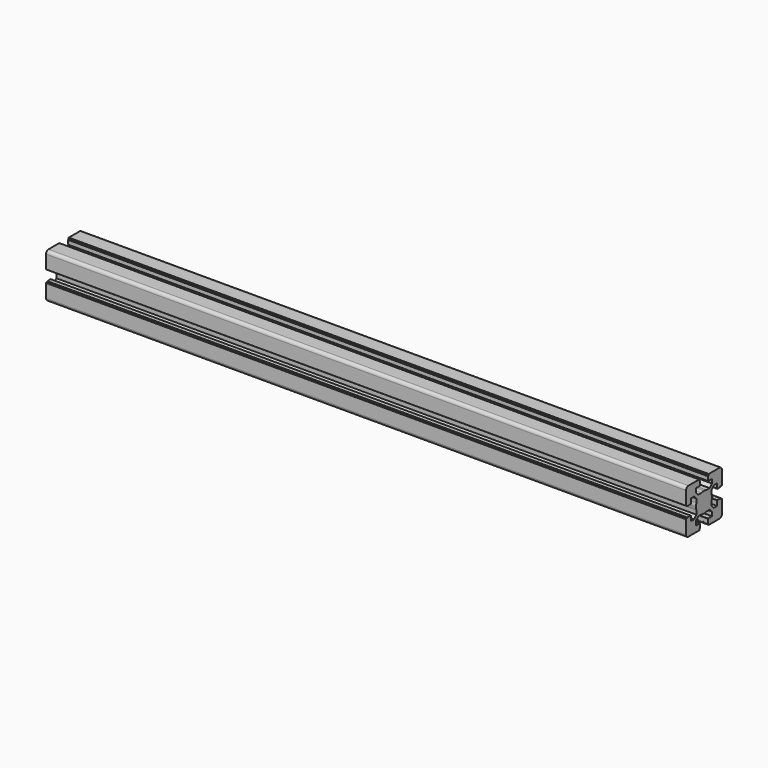
from build123d import *

# Parameters (mm, degrees)
F1_DEPTH = 641.35


with BuildPart() as f1:
    # F0 (on Right) → F1 (new body)
    with BuildSketch(Plane.YZ):
        with BuildLine():
            Line((-20.088481, -9.788837), (-20.088481, -10.288837))
            Line((-20.088481, -10.288837), (-21.28859, -10.288837))
            ThreePointArc((-21.28859, -10.288837), (-21.500722, -10.376705), (-21.58859, -10.588837))
            Line((-21.58859, -10.588837), (-21.58859, -23.988949))
            ThreePointArc((-21.58859, -23.988949), (-20.70991, -26.11027), (-18.58859, -26.988949))
            Line((-18.58859, -26.988949), (-5.188544, -26.988949))
            ThreePointArc((-5.188544, -26.988949), (-4.976411, -26.901081), (-4.888544, -26.688949))
            Line((-4.888544, -26.688949), (-4.888544, -25.488841))
            Line((-4.888544, -25.488841), (-4.388544, -25.488841))
            ThreePointArc((-4.388544, -25.488841), (-4.176411, -25.400973), (-4.088544, -25.188841))
            Line((-4.088544, -25.188841), (-4.088544, -21.288841))
            ThreePointArc((-4.088544, -21.288841), (-4.176411, -21.076709), (-4.388544, -20.988841))
            Line((-4.388544, -20.988841), (-9.138663, -20.988841))
            Line((-9.138663, -20.988841), (-9.138663, -16.881665))
            Line((-9.138663, -16.881665), (-6.245729, -13.988731))
            Line((-6.245729, -13.988731), (-2.211433, -13.988731))
            ThreePointArc((-2.211433, -13.988731), (-0.669869, -14.363044), (0.91149, -14.48887))
            Line((0.91149, -14.48887), (0.91149, -4.48887))
            Line((0.91149, -4.48887), (-9.08851, -4.48887))
            ThreePointArc((-9.08851, -4.48887), (-8.962684, -6.070229), (-8.588371, -7.611793))
            Line((-8.588371, -7.611793), (-8.588371, -11.646022))
            Line((-8.588371, -11.646022), (-11.481305, -14.538956))
            Line((-11.481305, -14.538956), (-15.588481, -14.538956))
            Line((-15.588481, -14.538956), (-15.588481, -9.788837))
            ThreePointArc((-15.588481, -9.788837), (-15.676349, -9.576705), (-15.888481, -9.488837))
            Line((-15.888481, -9.488837), (-19.788481, -9.488837))
            ThreePointArc((-19.788481, -9.488837), (-20.000613, -9.576705), (-20.088481, -9.788837))
        make_face()
        with BuildLine():
            ThreePointArc((-8.588371, -1.365947), (-8.962684, -2.907511), (-9.08851, -4.48887))
            Line((-9.08851, -4.48887), (0.91149, -4.48887))
            Line((0.91149, -4.48887), (0.91149, 5.51113))
            ThreePointArc((0.91149, 5.51113), (-0.669869, 5.385303), (-2.211433, 5.010991))
            Line((-2.211433, 5.010991), (-6.245729, 5.010991))
            Line((-6.245729, 5.010991), (-9.138663, 7.903925))
            Line((-9.138663, 7.903925), (-9.138663, 12.011101))
            Line((-9.138663, 12.011101), (-4.388544, 12.011101))
            ThreePointArc((-4.388544, 12.011101), (-4.176411, 12.098969), (-4.088544, 12.311101))
            Line((-4.088544, 12.311101), (-4.088544, 16.211101))
            ThreePointArc((-4.088544, 16.211101), (-4.176411, 16.423233), (-4.388544, 16.511101))
            Line((-4.388544, 16.511101), (-4.888544, 16.511101))
            Line((-4.888544, 16.511101), (-4.888544, 17.711209))
            ThreePointArc((-4.888544, 17.711209), (-4.976411, 17.923341), (-5.188544, 18.011209))
            Line((-5.188544, 18.011209), (-18.58859, 18.011209))
            ThreePointArc((-18.58859, 18.011209), (-20.70991, 17.13253), (-21.58859, 15.011209))
            Line((-21.58859, 15.011209), (-21.58859, 1.611097))
            ThreePointArc((-21.58859, 1.611097), (-21.500722, 1.398965), (-21.28859, 1.311097))
            Line((-21.28859, 1.311097), (-20.088481, 1.311097))
            Line((-20.088481, 1.311097), (-20.088481, 0.811097))
            ThreePointArc((-20.088481, 0.811097), (-20.000613, 0.598965), (-19.788481, 0.511097))
            Line((-19.788481, 0.511097), (-15.888481, 0.511097))
            ThreePointArc((-15.888481, 0.511097), (-15.676349, 0.598965), (-15.588481, 0.811097))
            Line((-15.588481, 0.811097), (-15.588481, 5.561216))
            Line((-15.588481, 5.561216), (-11.481305, 5.561216))
            Line((-11.481305, 5.561216), (-8.588371, 2.668282))
            Line((-8.588371, 2.668282), (-8.588371, -1.365947))
        make_face()
        with BuildLine():
            Line((0.91149, 5.51113), (0.91149, -4.48887))
            Line((0.91149, -4.48887), (10.91149, -4.48887))
            ThreePointArc((10.91149, -4.48887), (10.785663, -2.907511), (10.41135, -1.365947))
            Line((10.41135, -1.365947), (10.41135, 2.668282))
            Line((10.41135, 2.668282), (13.304285, 5.561216))
            Line((13.304285, 5.561216), (14.016842, 5.561216))
            Line((14.016842, 5.561216), (17.41146, 5.561216))
            Line((17.41146, 5.561216), (17.41146, 0.811097))
            ThreePointArc((17.41146, 0.811097), (17.499328, 0.598965), (17.71146, 0.511097))
            Line((17.71146, 0.511097), (21.61146, 0.511097))
            ThreePointArc((21.61146, 0.511097), (21.823593, 0.598965), (21.91146, 0.811097))
            Line((21.91146, 0.811097), (21.91146, 1.311097))
            Line((21.91146, 1.311097), (23.111569, 1.311097))
            ThreePointArc((23.111569, 1.311097), (23.323701, 1.398965), (23.411569, 1.611097))
            Line((23.411569, 1.611097), (23.411569, 15.011209))
            ThreePointArc((23.411569, 15.011209), (22.532889, 17.13253), (20.411569, 18.011209))
            Line((20.411569, 18.011209), (7.011523, 18.011209))
            ThreePointArc((7.011523, 18.011209), (6.799391, 17.923341), (6.711523, 17.711209))
            Line((6.711523, 17.711209), (6.711523, 16.511101))
            Line((6.711523, 16.511101), (6.211523, 16.511101))
            ThreePointArc((6.211523, 16.511101), (5.999391, 16.423233), (5.911523, 16.211101))
            Line((5.911523, 16.211101), (5.911523, 12.311101))
            ThreePointArc((5.911523, 12.311101), (5.999391, 12.098969), (6.211523, 12.011101))
            Line((6.211523, 12.011101), (10.961642, 12.011101))
            Line((10.961642, 12.011101), (10.961642, 7.903925))
            Line((10.961642, 7.903925), (8.068708, 5.010991))
            Line((8.068708, 5.010991), (4.034413, 5.010991))
            ThreePointArc((4.034413, 5.010991), (2.492849, 5.385303), (0.91149, 5.51113))
        make_face()
        with BuildLine():
            Line((10.91149, -4.48887), (0.91149, -4.48887))
            Line((0.91149, -4.48887), (0.91149, -14.48887))
            ThreePointArc((0.91149, -14.48887), (2.492849, -14.363044), (4.034413, -13.988731))
            Line((4.034413, -13.988731), (8.068708, -13.988731))
            Line((8.068708, -13.988731), (10.961642, -16.881665))
            Line((10.961642, -16.881665), (10.961642, -20.988841))
            Line((10.961642, -20.988841), (6.211523, -20.988841))
            ThreePointArc((6.211523, -20.988841), (5.999391, -21.076709), (5.911523, -21.288841))
            Line((5.911523, -21.288841), (5.911523, -25.188841))
            ThreePointArc((5.911523, -25.188841), (5.999391, -25.400973), (6.211523, -25.488841))
            Line((6.211523, -25.488841), (6.711523, -25.488841))
            Line((6.711523, -25.488841), (6.711523, -26.688949))
            ThreePointArc((6.711523, -26.688949), (6.799391, -26.901081), (7.011523, -26.988949))
            Line((7.011523, -26.988949), (20.411569, -26.988949))
            ThreePointArc((20.411569, -26.988949), (22.532889, -26.11027), (23.411569, -23.988949))
            Line((23.411569, -23.988949), (23.411569, -10.588837))
            ThreePointArc((23.411569, -10.588837), (23.323701, -10.376705), (23.111569, -10.288837))
            Line((23.111569, -10.288837), (21.91146, -10.288837))
            Line((21.91146, -10.288837), (21.91146, -9.788837))
            ThreePointArc((21.91146, -9.788837), (21.823593, -9.576705), (21.61146, -9.488837))
            Line((21.61146, -9.488837), (17.71146, -9.488837))
            ThreePointArc((17.71146, -9.488837), (17.499328, -9.576705), (17.41146, -9.788837))
            Line((17.41146, -9.788837), (17.41146, -14.538956))
            Line((17.41146, -14.538956), (13.304285, -14.538956))
            Line((13.304285, -14.538956), (10.41135, -11.646022))
            Line((10.41135, -11.646022), (10.41135, -7.611793))
            ThreePointArc((10.41135, -7.611793), (10.785663, -6.070229), (10.91149, -4.48887))
        make_face()
    extrude(amount=F1_DEPTH)


solid = f1.part
